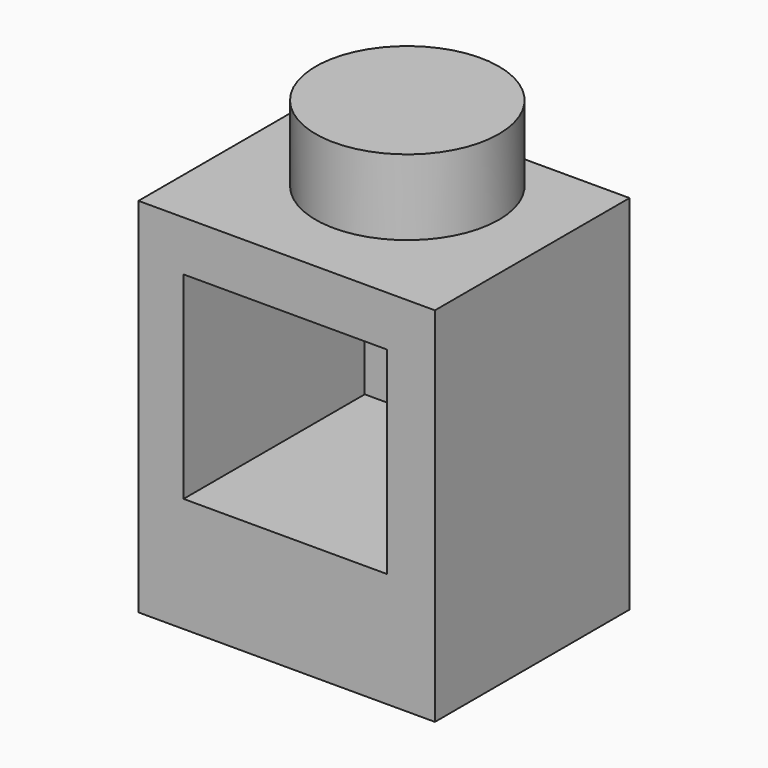
from build123d import *

# Parameters (mm, degrees)
F0_W     = 7.854256779
F0_H     = 6.4445212483
F1_DEPTH = 9.6
F2_R     = 2.4271283895
F3_DEPTH = 2
F4_W     = 5.3872168064
F4_H     = 5.2361704875
F5_DEPTH = 6
F6_R     = 2.0273342164
F6_R_2   = 1.6301233672
F7_DEPTH = 1


with BuildPart() as f1:
    # F0 (on Top) → F1 (new body)
    with BuildSketch(Plane.XY):
        with Locations((-55.12210913, 45.146599412)):
            Rectangle(F0_W, F0_H)
    extrude(amount=F1_DEPTH)

    # F2 (on face) → F3 (join)
    with BuildSketch(Plane.XY.offset(9.6)):
        with Locations((-55.12210913, 45.918174088)):
            Circle(F2_R)
    extrude(amount=F3_DEPTH)

    # F4 (on face) → F5 (cut)
    with BuildSketch(Plane.XZ.offset(-41.9243387878)):
        with Locations((-55.1610887051, 5.6545048719)):
            Rectangle(F4_W, F4_H)
    extrude(amount=-F5_DEPTH, mode=Mode.SUBTRACT)

    # F6 (on face) → F7 (cut)
    with BuildSketch(Plane(origin=(0, 48.3688600361, 0), x_dir=(-1, 0, 0), z_dir=(0, 1, 0))):
        with Locations((54.9886859953, 4.5204013586)):
            Circle(F6_R)
        with Locations((54.9886859953, 4.5204013586)):
            Circle(F6_R_2, mode=Mode.SUBTRACT)
    extrude(amount=-F7_DEPTH, mode=Mode.SUBTRACT)


solid = f1.part
